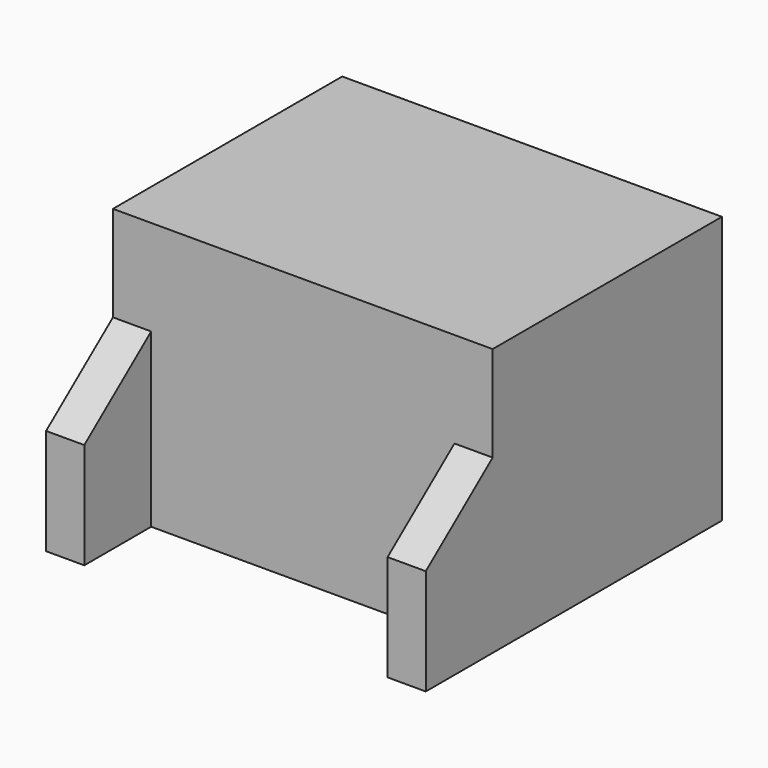
from build123d import *

# Parameters (mm, degrees)
F0_W     = 1.6
F0_H     = 0.85
F0_H_2   = 0.7
F1_DEPTH = 6
F0_W_2   = 0.4
F0_H_3   = 0.4
F2_DEPTH = 0.1
F4_DEPTH = 0.8
F6_DEPTH = 0.8


with BuildPart() as f1:
    # F0 (on Front) → F1 (new body)
    with BuildSketch(Plane.XZ):
        Polygon((-2.375, 1.95), (-3.975, 1.95), (-3.975, -2.8), (2.375, -2.8), (2.375, -2.1), (-2.375, -2.1), align=None)
        with Locations((-3.175, 2.375)):
            Rectangle(F0_W, F0_H)
        Polygon((3.975, 2.8), (-2.375, 2.8), (-2.375, 1.95), (-0.4, 1.95), (-0.4, 2.35), (0, 2.35), (0.4, 2.35), (0.4, 1.95), (2.375, 1.95), (2.375, -2.1), (3.975, -2.1), align=None)
        with Locations((3.175, -2.45)):
            Rectangle(F0_W, F0_H_2)
    extrude(amount=-F1_DEPTH)

    # F0 (on Front) → F2 (join)
    with BuildSketch(Plane.XZ):
        Polygon((-0.4, 1.95), (-2.375, 1.95), (-2.375, -2.1), (2.375, -2.1), (2.375, 1.95), (0.4, 1.95), (0, 1.95), align=None)
        with Locations((-0.2, 2.15)):
            Rectangle(F0_W_2, F0_H_3)
        with Locations((0.2, 2.15)):
            Rectangle(F0_W_2, F0_H_3)
    extrude(amount=-F2_DEPTH)

    # F3 (on face) → F4 (join)
    with BuildSketch(Plane.YZ.offset(3.975)):
        Polygon((0, -2.8), (0, 0.8), (-1.75, -0.582549), (-1.75, -2.8), align=None)
    extrude(amount=-F4_DEPTH)

    # F5 (on face) → F6 (join)
    with BuildSketch(Plane(origin=(-3.975, 0, 0), x_dir=(0, -1, 0), z_dir=(-1, 0, 0))):
        Polygon((1.75, -0.582549), (0, 0.8), (0, -2.8), (1.75, -2.8), align=None)
    extrude(amount=-F6_DEPTH)


solid = f1.part
